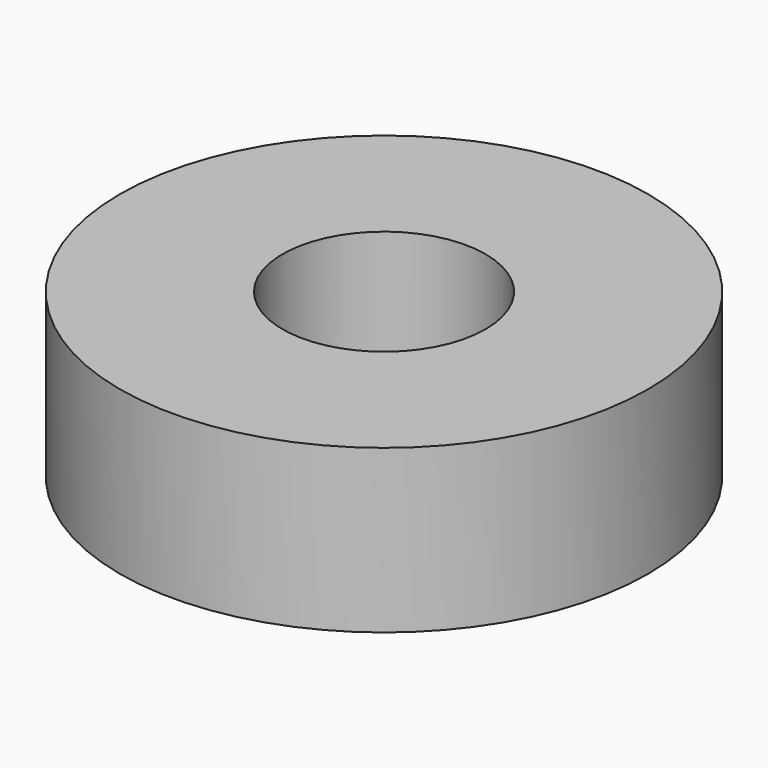
from build123d import *

# Parameters (mm, degrees)
SKETCH_R   = 13
SKETCH_R_2 = 5
PAD_DEPTH  = 8


with BuildPart() as part:
    # Sketch → Pad (new body)
    with BuildSketch(Plane.XY):
        Circle(SKETCH_R)
        Circle(SKETCH_R_2, mode=Mode.SUBTRACT)
    extrude(amount=PAD_DEPTH)


solid = part.part
